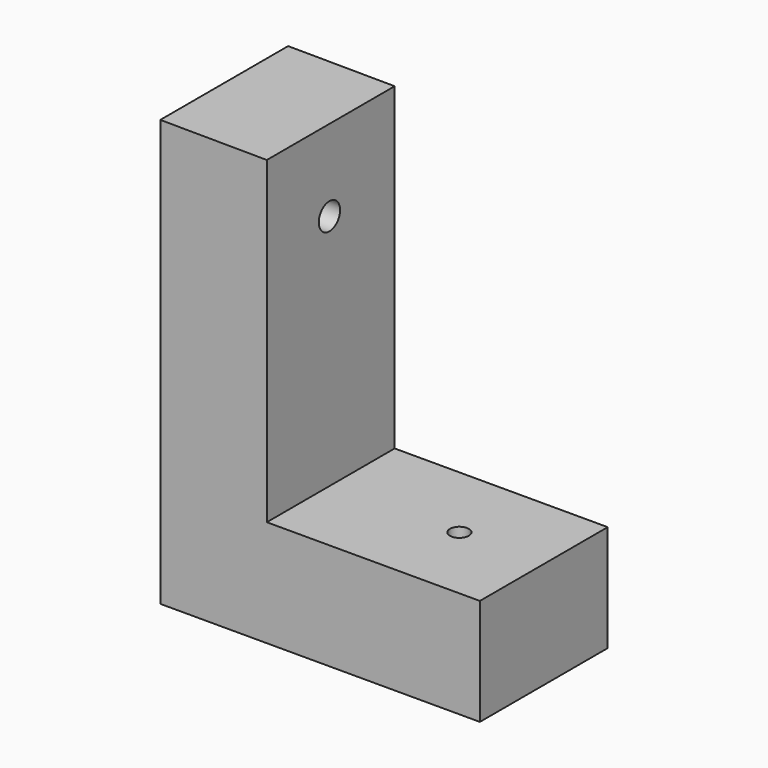
from build123d import *

# Parameters (mm, degrees)
F1_DEPTH = 76.2
F2_R     = 4.5085
F3_DEPTH = 92.761762
F4_R     = 6.35
F5_DEPTH = 118.672617


with BuildPart() as f1:
    # F0 (on Front) → F1 (new body)
    with BuildSketch(Plane.XZ):
        Polygon((-46.039158, 105.114406), (-96.838128, 105.437962), (-96.838128, -97.762038), (55.561872, -97.762038), (55.561872, -46.962038), (-46.039158, -46.962038), align=None)
    extrude(amount=F1_DEPTH)

    # F2 (on face) → F3 (cut)
    with BuildSketch(Plane.XY.offset(-46.962038)):
        with Locations((15.037069, -37.766326)):
            Circle(F2_R)
    extrude(amount=-F3_DEPTH, mode=Mode.SUBTRACT)

    # F4 (on face) → F5 (cut)
    with BuildSketch(Plane.YZ.offset(-46.039158)):
        with Locations((-38.88151, 66.329271)):
            Circle(F4_R)
    extrude(amount=-F5_DEPTH, mode=Mode.SUBTRACT)


solid = f1.part
